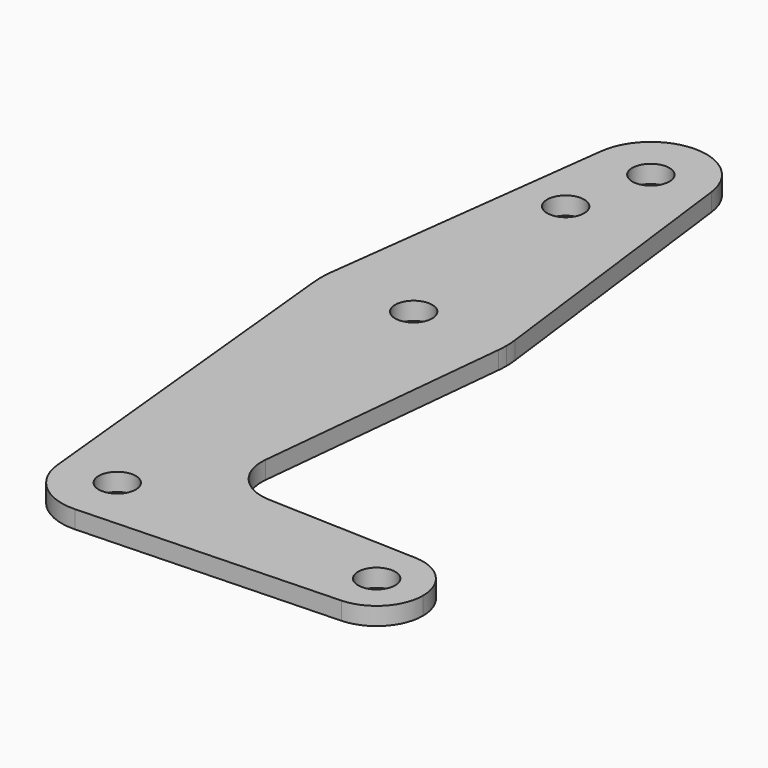
from build123d import *

# Parameters (mm, degrees)
F0_R     = 3.175
F1_DEPTH = 3.048


with BuildPart() as f1:
    # F0 (on Top) → F1 (new body)
    with BuildSketch(Plane.XY):
        with BuildLine():
            ThreePointArc((-9.4502929642, 51.5968415612), (-0.596483242, 40.8999116669), (9.525, 50.4062165612))
            ThreePointArc((9.525, 50.4062165612), (9.5063048942, 51.0026998031), (9.4502929642, 51.5968415612))
            ThreePointArc((9.4502929642, 51.5968415612), (0, 59.9312165612), (-9.4502929642, 51.5968415612))
        make_face()
        with Locations((0, 50.4062165612)):
            Circle(F0_R, mode=Mode.SUBTRACT)
        with BuildLine():
            ThreePointArc((9.4502929642, 51.5968415612), (9.5063048942, 51.0026998031), (9.525, 50.4062165612))
            ThreePointArc((9.525, 50.4062165612), (-0.596483242, 40.8999116669), (-9.4502929642, 51.5968415612))
            Line((-9.4502929642, 51.5968415612), (-15.7504882737, 1.5905915612))
            ThreePointArc((-15.7504882737, 1.5905915612), (0, 15.4812165612), (15.7504882737, 1.5905915612))
            Line((15.7504882737, 1.5905915612), (9.4502929642, 51.5968415612))
        make_face()
        with BuildLine():
            ThreePointArc((-3.175, 32.9564165612), (-5.4200640303, 38.3764805914), (0, 36.1314165612))
            ThreePointArc((0, 36.1314165612), (-0.9299359697, 33.8863525309), (-3.175, 32.9564165612))
        make_face(mode=Mode.SUBTRACT)
        with BuildLine():
            ThreePointArc((15.875, -0.3937834388), (15.8438414904, 0.6003552978), (15.7504882737, 1.5905915612))
            ThreePointArc((15.7504882737, 1.5905915612), (0, 15.4812165612), (-15.7504882737, 1.5905915612))
            ThreePointArc((-15.7504882737, 1.5905915612), (-15.8737438155, -0.1940779521), (-15.7954255641, -1.9812834388))
            ThreePointArc((-15.7954255641, -1.9812834388), (0, -16.2687834388), (15.7954255641, -1.9812834388))
            ThreePointArc((15.7954255641, -1.9812834388), (15.8550939106, -1.1885299929), (15.875, -0.3937834388))
        make_face()
        with Locations((0, -0.3937834388)):
            Circle(F0_R, mode=Mode.SUBTRACT)
        with BuildLine():
            ThreePointArc((15.7954255641, -1.9812834388), (0, -16.2687834388), (-15.7954255641, -1.9812834388))
            Line((-15.7954255641, -1.9812834388), (-9.4772553384, -64.8462834388))
            ThreePointArc((-9.4772553384, -64.8462834388), (-0.4768479324, -54.3807270925), (9.525, -63.8937834388))
            ThreePointArc((9.525, -63.8937834388), (6.8544082857, -70.5076107766), (0.3401785714, -73.4127068832))
            Line((0.3401785714, -73.4127068832), (44.7334821429, -71.8262196425))
            ThreePointArc((44.7334821429, -71.8262196425), (36.5125, -63.8937834388), (44.7334821429, -55.9613472352))
            Line((44.7334821429, -55.9613472352), (18.9676000005, -55.040549728))
            ThreePointArc((18.9676000005, -55.040549728), (13.2611998974, -52.322424289), (11.3411865923, -46.3004016264))
            Line((11.3411865923, -46.3004016264), (15.7954255641, -1.9812834388))
        make_face()
        with BuildLine():
            ThreePointArc((9.525, -63.8937834388), (-0.4768479324, -54.3807270925), (-9.4772553384, -64.8462834388))
            ThreePointArc((-9.4772553384, -64.8462834388), (-6.2623833816, -71.0707033479), (0.3401785714, -73.4127068832))
            ThreePointArc((0.3401785714, -73.4127068832), (6.8544082857, -70.5076107766), (9.525, -63.8937834388))
        make_face()
        with Locations((0, -63.8937834388)):
            Circle(F0_R, mode=Mode.SUBTRACT)
        with BuildLine():
            ThreePointArc((44.7334821429, -55.9613472352), (36.5125, -63.8937834388), (44.7334821429, -71.8262196425))
            ThreePointArc((44.7334821429, -71.8262196425), (50.1620069047, -69.4053062203), (52.3875, -63.8937834388))
            ThreePointArc((52.3875, -63.8937834388), (50.1620069047, -58.3822606574), (44.7334821429, -55.9613472352))
        make_face()
        with Locations((44.45, -63.8937834388)):
            Circle(F0_R, mode=Mode.SUBTRACT)
    extrude(amount=F1_DEPTH)


solid = f1.part
